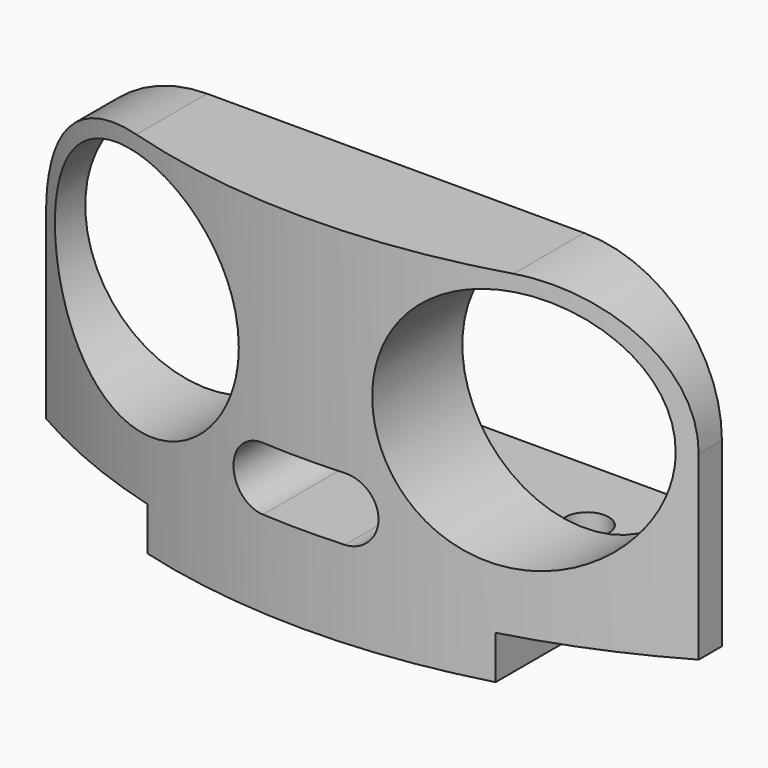
from build123d import *

# Parameters (mm, degrees)
SKETCH_R     = 8.4
PAD_DEPTH    = 8
SKETCH001_R  = 1.5
PAD001_DEPTH = 3
POCKET_DEPTH = 25.001


with BuildPart() as part:
    # Sketch → Pad (new body)
    with BuildSketch(Plane.XZ):
        with BuildLine():
            Line((-13, 22), (13, 22))
            ThreePointArc((22.5, 12.5), (19.717514, 19.217514), (13, 22))
            Line((22.5, 12.5), (22.5, 0))
            Line((22.5, 0), (-22.5, 0))
            Line((-22.5, 0), (-22.5, 12.5))
            ThreePointArc((-13, 22), (-19.717514, 19.217514), (-22.5, 12.5))
        make_face()
        with Locations((-13, 12.5)):
            Circle(SKETCH_R, mode=Mode.SUBTRACT)
        with Locations((13, 12.5)):
            Circle(SKETCH_R, mode=Mode.SUBTRACT)
        with BuildLine():
            ThreePointArc((-2.822, 7.336), (-5, 5.158), (-2.822, 2.98))
            Line((-2.822, 2.98), (2.822, 2.98))
            ThreePointArc((2.822, 2.98), (5, 5.158), (2.822, 7.336))
            Line((2.822, 7.336), (-2.822, 7.336))
        make_face(mode=Mode.SUBTRACT)
    extrude(amount=PAD_DEPTH)

    # Sketch001 (on Face2 of Pad) → Pad001 (join)
    with BuildSketch(Plane(origin=(0, 0, 0), x_dir=(1, 0, 0), z_dir=(0, 0, -1))):
        with BuildLine():
            Line((-9, -12), (9, -12))
            ThreePointArc((9, -12), (11.12132, -11.12132), (12, -9))
            Line((12, -9), (12, 8))
            Line((12, 8), (-12, 8))
            Line((-12, 8), (-12, -9))
            ThreePointArc((-12, -9), (-11.12132, -11.12132), (-9, -12))
        make_face()
        with Locations((-8, -6.5)):
            Circle(SKETCH001_R, mode=Mode.SUBTRACT)
        with Locations((8, -6.5)):
            Circle(SKETCH001_R, mode=Mode.SUBTRACT)
    extrude(amount=PAD001_DEPTH)

    # Sketch002 (on Face6 of Pad001) → Pocket (cut, through all)
    with BuildSketch(Plane.XY.offset(22)):
        with BuildLine():
            Line((-22.5, -2), (-22.5, -9))
            Line((-22.5, -9), (22.5, -9))
            Line((22.5, -9), (22.5, -2))
            ThreePointArc((-22.5, -2), (0, -8), (22.5, -2))
        make_face()
    extrude(amount=-POCKET_DEPTH, mode=Mode.SUBTRACT)


solid = part.part
